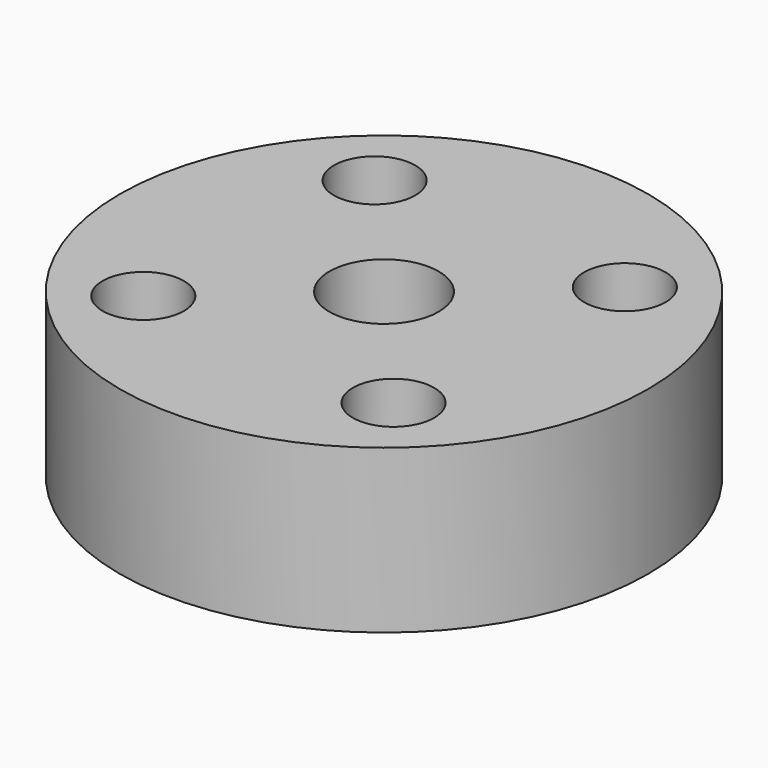
from build123d import *

# Parameters (mm, degrees)
F0_R     = 10.875
F0_R_2   = 1.675
F1_DEPTH = 6.7
F2_R     = 4
F3_DEPTH = 2.8
F4_R     = 2.25
F5_DEPTH = 12.5
F6_R     = 0.5


with BuildPart() as f1:
    # F0 (on Top) → F1 (new body)
    with BuildSketch(Plane.XY):
        Circle(F0_R)
        with Locations((-5.853981, -5.072985)):
            Circle(F0_R_2, mode=Mode.SUBTRACT)
        with Locations((5.076866, -5.85559)):
            Circle(F0_R_2, mode=Mode.SUBTRACT)
        with Locations((-5.074026, 5.858051)):
            Circle(F0_R_2, mode=Mode.SUBTRACT)
        with Locations((5.856821, 5.075446)):
            Circle(F0_R_2, mode=Mode.SUBTRACT)
    extrude(amount=F1_DEPTH)

    # F2 (on Top) → F3 (join)
    with BuildSketch(Plane.XY):
        Circle(F2_R)
    extrude(amount=-F3_DEPTH)

    # F4 (on Top) → F5 (cut, symmetric)
    with BuildSketch(Plane.XY):
        Circle(F4_R)
    extrude(amount=F5_DEPTH, both=True, mode=Mode.SUBTRACT)

    # F6
    f6_edges = [f1.edges().sort_by_distance(p)[0] for p in [
        (-4, 0, -2.8),
    ]]
    fillet(f6_edges, radius=F6_R)


solid = f1.part
